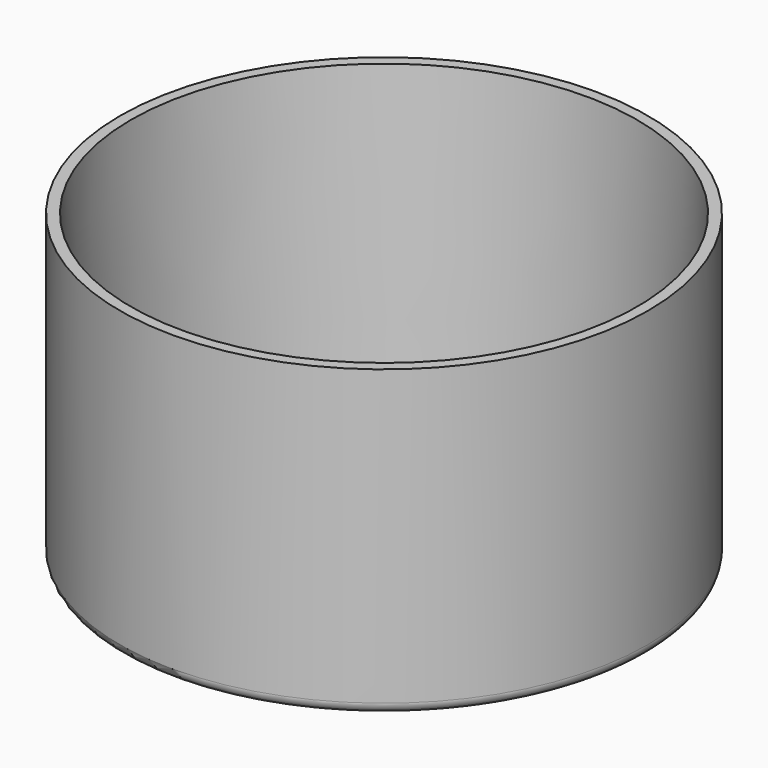
from build123d import *


with BuildPart() as f1:
    # F0 (on Front) → F1 (revolve)
    with BuildSketch(Plane.XZ):
        Polygon((-44, 3), (-41.404769, 3), (-44.119512, 5.589822), (-44, 3.058995), align=None)
        with BuildLine():
            Line((-46.5, 0), (0, 0))
            Line((0, 0), (0, 3))
            Line((0, 3), (-41.404769, 3))
            Line((-41.404769, 3), (-44, 3))
            Line((-44, 3), (-44, 3.058995))
            Line((-44, 3.058995), (-44.119512, 5.589822))
            Line((-44.119512, 5.589822), (-46.5, 56))
            Line((-46.5, 56), (-48.5, 56))
            Line((-48.5, 56), (-48.5, 2))
            ThreePointArc((-48.5, 2), (-47.914214, 0.585786), (-46.5, 0))
        make_face()
    revolve(axis=Axis((0, 0, 1.5), (0, 0, -1)))


solid = f1.part
